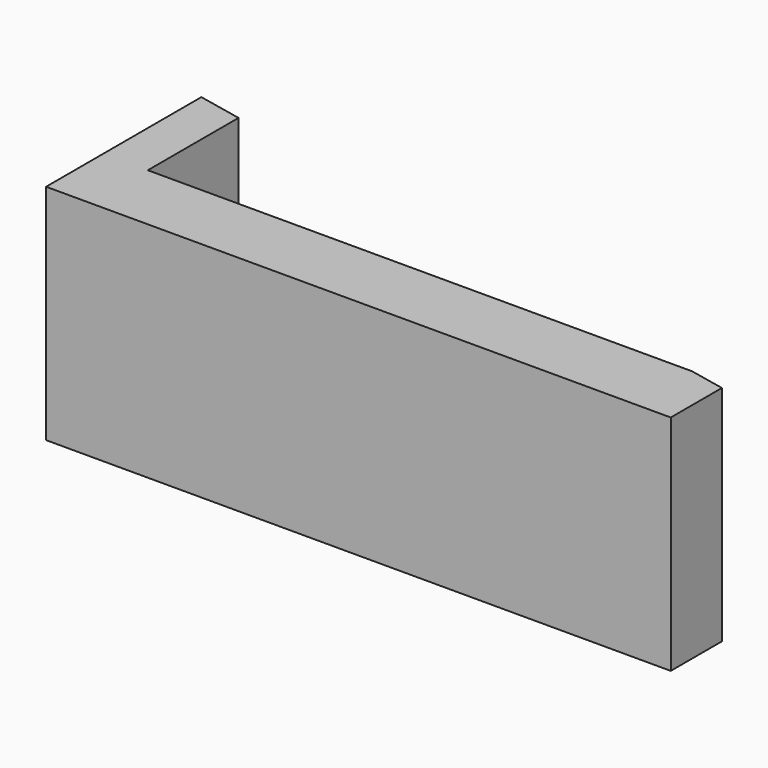
from build123d import *

# Parameters (mm, degrees)
F1_DEPTH = 15
F3_DEPTH = 10
F6_DEPTH = 3
F8_DEPTH = 25


with BuildPart() as f1:
    # F0 (on Top) → F1 (new body)
    with BuildSketch(Plane.XY):
        Polygon((60, 12.5), (0, 0), (60, 0), align=None)
        Polygon((60, 12.5), (60, 0), (90, 0), (90, 18.75), align=None)
    extrude(amount=F1_DEPTH)

    # F2 (on face) → F3 (join)
    with BuildSketch(Plane.XY.offset(15)):
        Polygon((0, 0), (90, 0), (90, 18.75), (85.0000008941, 17.7083335196), (85.0000008941, 5), (24, 5), align=None)
    extrude(amount=F3_DEPTH)


with BuildPart() as f4_1:
    # F4: instance of F1
    add(f1.part.mirror(Plane.YZ))

    # F6 (add): a face of the model
    f6_faces = [f4_1.faces().sort_by_distance(p)[0] for p in [
        (-45, 0, 12.5),
    ]]
    extrude(f6_faces, amount=F6_DEPTH)

    # F7 (on face) → F8 (cut, through all)
    with BuildSketch(Plane.XY.offset(25)):
        Polygon((-20, -3), (0, -3), (0, 0), (-20, 4.1666666667), align=None)
    extrude(amount=-F8_DEPTH, mode=Mode.SUBTRACT)


solid = f4_1.part
